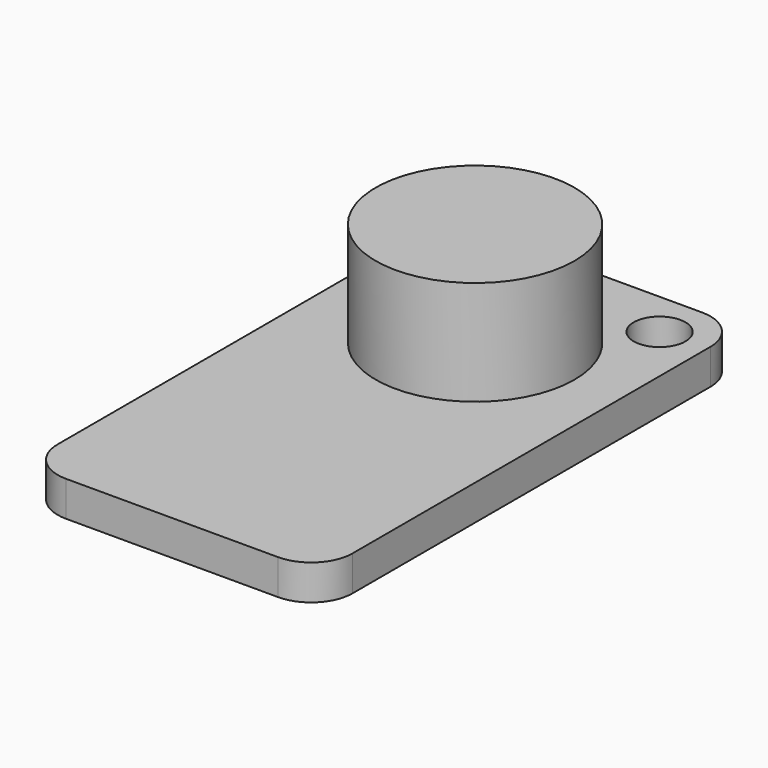
from build123d import *

# Parameters (mm, degrees)
F2_R     = 1.25
F2_R_2   = 4.8
F3_DEPTH = 1.7
F4_DEPTH = 5.05


with BuildPart() as f3:
    # F2 (on Top) → F3 (new body)
    with BuildSketch(Plane.XY):
        with BuildLine():
            Line((5.125, 12.8), (-5.125, 12.8))
            ThreePointArc((-5.125, 12.8), (-6.5392135624, 12.2142135624), (-7.125, 10.8))
            Line((-7.125, 10.8), (-7.125, -10.8))
            ThreePointArc((-7.125, -10.8), (-6.5392135624, -12.2142135624), (-5.125, -12.8))
            Line((-5.125, -12.8), (5.125, -12.8))
            ThreePointArc((5.125, -12.8), (6.5392135624, -12.2142135624), (7.125, -10.8))
            Line((7.125, -10.8), (7.125, 10.8))
            ThreePointArc((7.125, 10.8), (6.5392135624, 12.2142135624), (5.125, 12.8))
        make_face()
        with Locations((-4.8875631329, 10.5625631329)):
            Circle(F2_R, mode=Mode.SUBTRACT)
        with Locations((0, 5.5)):
            Circle(F2_R_2, mode=Mode.SUBTRACT)
        with Locations((4.8624368671, 10.5625631329)):
            Circle(F2_R, mode=Mode.SUBTRACT)
        with Locations((0, 5.5)):
            Circle(F2_R_2)
    extrude(amount=-F3_DEPTH)

    # F2 (on Top) → F4 (join)
    with BuildSketch(Plane.XY):
        with Locations((0, 5.5)):
            Circle(F2_R_2)
    extrude(amount=F4_DEPTH)


solid = f3.part
